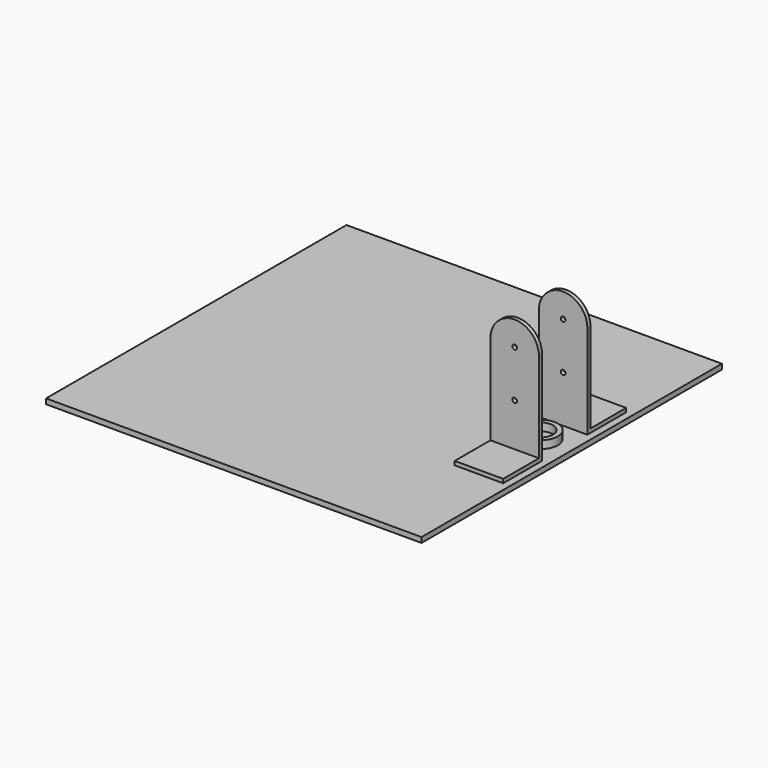
from build123d import *

# Parameters (mm, degrees)
F0_W           = 304.8
F0_H           = 304.8
F1_DEPTH       = 4.2333333333
F2_R           = 14.097
F2_R_2         = 10.287
F3_DEPTH       = 6.35
F4_W           = 39.3954
F4_H           = 39.3954
F5_DEPTH       = 3.175
F6_W           = 39.3954
F6_H           = 76.2
F7_DEPTH       = 3.175
F9_R           = 1.905
F10_DEPTH      = 129.414
F10_DEPTH_BACK = 86.36


with BuildPart() as f1:
    # F0 (on Top) → F1 (new body)
    with BuildSketch(Plane.XY):
        Rectangle(F0_W, F0_H)
    extrude(amount=F1_DEPTH)

    # F2 (on face) → F3 (join)
    with BuildSketch(Plane.XY.offset(4.2333333333)):
        with Locations((127, 0)):
            Circle(F2_R)
        with Locations((127, 0)):
            Circle(F2_R_2, mode=Mode.SUBTRACT)
    extrude(amount=F3_DEPTH)

    # F4 (on face) → F5 (join)
    with BuildSketch(Plane.XY.offset(4.2333333333)):
        with Locations((127, 42.6847)):
            Rectangle(F4_W, F4_H)
        with Locations((127, -42.6847)):
            Rectangle(F4_W, F4_H)
    extrude(amount=F5_DEPTH)

    # F6 (on face) → F7 (join)
    with BuildSketch(Plane.XZ.offset(-22.987)):
        with Locations((127, 42.3333333333)):
            Rectangle(F6_W, F6_H)
        with BuildLine():
            ThreePointArc((146.6977, 80.4333333333), (127, 100.1310333333), (107.3023, 80.4333333333))
            Line((107.3023, 80.4333333333), (146.6977, 80.4333333333))
        make_face()
    extrude(amount=-F7_DEPTH)

    # F8: F1 across plane


with BuildPart() as f1_1:
    add(f1.part)
    add(f1.part.mirror(Plane.XZ))

    # F9 (on face) → F10 (cut, two sides)
    with BuildSketch(Plane.XZ.offset(-22.987)) as f10_sk:
        with Locations((127, 42.3333333333)):
            Circle(F9_R)
        with Locations((127, 80.4333333333)):
            Circle(F9_R)
    extrude(amount=-F10_DEPTH, mode=Mode.SUBTRACT)
    extrude(f10_sk.sketch, amount=F10_DEPTH_BACK, mode=Mode.SUBTRACT)


solid = f1_1.part
